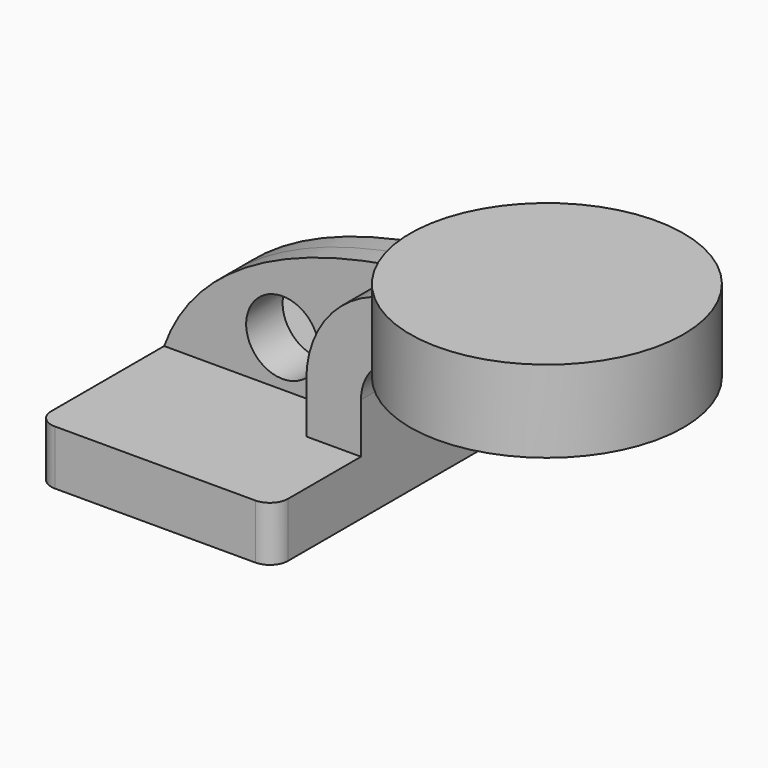
from build123d import *

# Parameters (mm, degrees)
F1_DEPTH = 63.5
F2_DEPTH = 25.4
F3_DEPTH = 7.9375
F5_R     = 6.35
F6_R     = 12.7
F7_DEPTH = 50.8


with BuildPart() as f1:
    # F0 (on Front) → F1 (new body, symmetric)
    with BuildSketch(Plane.XZ):
        Polygon((22.225, 9.525), (-41.275, 9.525), (-41.275, -9.525), (41.275, -9.525), (41.275, 9.525), align=None)
    extrude(amount=F1_DEPTH, both=True)

    # F0 (on Front) → F2 (join, symmetric)
    with BuildSketch(Plane.XZ):
        with BuildLine():
            Line((22.225, 27.0002), (22.225, 9.525))
            Line((22.225, 9.525), (41.275, 9.525))
            Line((41.275, 9.525), (41.275, 27.0002))
            ThreePointArc((41.275, 27.0002), (45.9246798487, 38.2255201513), (57.15, 42.8752))
            Line((57.15, 42.8752), (57.15, 61.9252))
            add(Edge.make_bspline(
                [(52.9911566186, 61.6766999204), (54.4399345917, 61.780290683), (55.8288716771, 61.8622040359), (57.15, 61.9252)],
                knots=[0.6317574931, 0.6317574931, 0.6317574931, 0.6317574931, 0.6639097579, 0.6639097579, 0.6639097579, 0.6639097579], degree=3))
            ThreePointArc((52.9911566186, 61.6766999204), (31.0252681344, 50.1789404738), (22.225, 27.0002))
        make_face()
        with BuildLine():
            Line((72.6181762576, 61.9252), (57.15, 61.9252))
            Line((57.15, 61.9252), (57.15, 42.8752))
            Line((57.15, 42.8752), (85.725, 42.8752))
            Line((85.725, 42.8752), (85.725, 61.9252))
            add(Edge.make_bspline(
                [(72.6181762576, 61.9252), (77.3737433111, 61.7384817546), (81.2709365488, 61.5258076735), (85.725, 61.9252)],
                knots=[0.8210339091, 0.8210339091, 0.8210339091, 0.8210339091, 1, 1, 1, 1], degree=3))
        make_face()
    extrude(amount=F2_DEPTH, both=True)

    # F0 (on Front) → F3 (join, symmetric)
    with BuildSketch(Plane.XZ):
        with BuildLine():
            add(Edge.make_bspline(
                [(-41.275, 9.525), (-27.0460967422, 49.236584083), (24.5242244587, 59.6412526224), (52.9911566186, 61.6766999204)],
                knots=[0, 0, 0, 0, 0.6317574931, 0.6317574931, 0.6317574931, 0.6317574931], degree=3))
            Line((-41.275, 9.525), (22.225, 9.525))
            Line((22.225, 9.525), (22.225, 27.0002))
            ThreePointArc((22.225, 27.0002), (31.0252681344, 50.1789404738), (52.9911566186, 61.6766999204))
        make_face()
    extrude(amount=F3_DEPTH, both=True)

    # F0 (on Front) → F4 (revolve)
    with BuildSketch(Plane.XZ):
        Polygon((133.35, 66.675), (85.725, 66.675), (85.725, 61.9252), (85.725, 42.8752), (85.725, 38.1), (133.35, 38.1), align=None)
    revolve(axis=Axis((85.725, 0, 52.3875), (0, 0, -1)))

    # F5
    f5_edges = [f1.edges().sort_by_distance(p)[0] for p in [
        (41.275, -63.5, 0),
        (-41.275, -63.5, 0),
        (-41.275, 63.5, 0),
        (41.275, 63.5, 0),
    ]]
    fillet(f5_edges, radius=F5_R)

    # F6 (on face) → F7 (cut)
    with BuildSketch(Plane.XZ.offset(7.9375)):
        with Locations((0, 25.5429092795)):
            Circle(F6_R)
    extrude(amount=-F7_DEPTH, mode=Mode.SUBTRACT)


solid = f1.part
